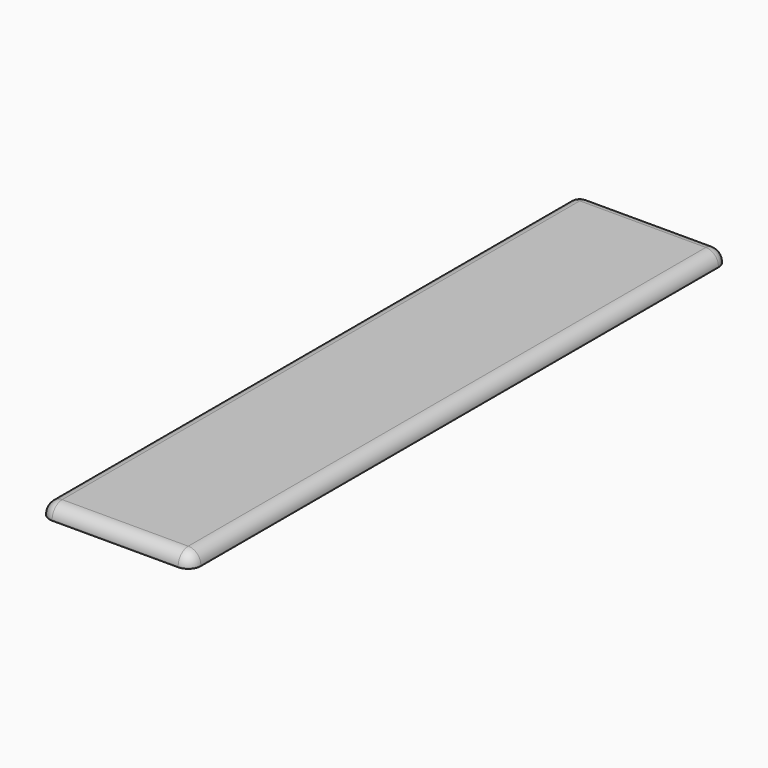
from build123d import *

# Parameters (mm, degrees)
SKETCH_W    = 18
SKETCH_H    = 80
PAD_DEPTH   = 1.6
FILLET_R    = 1.5
FILLET001_R = 1.5
FILLET002_R = 1.5
FILLET003_R = 1.5


with BuildPart() as part:
    # Sketch → Pad (new body)
    with BuildSketch(Plane.XY):
        with Locations((9, 40)):
            Rectangle(SKETCH_W, SKETCH_H)
    extrude(amount=PAD_DEPTH)

    # Fillet
    fillet_edges = [part.edges().sort_by_distance(p)[0] for p in [
        (0, 40, 1.6),
    ]]
    fillet(fillet_edges, radius=FILLET_R)

    # Fillet001
    fillet001_edges = [part.edges().sort_by_distance(p)[0] for p in [
        (9.75, 80, 1.6),
    ]]
    fillet(fillet001_edges, radius=FILLET001_R)

    # Fillet002
    fillet002_edges = [part.edges().sort_by_distance(p)[0] for p in [
        (18, 39.25, 1.6),
    ]]
    fillet(fillet002_edges, radius=FILLET002_R)

    # Fillet003
    fillet003_edges = [part.edges().sort_by_distance(p)[0] for p in [
        (9, 0, 1.6),
    ]]
    fillet(fillet003_edges, radius=FILLET003_R)


solid = part.part
